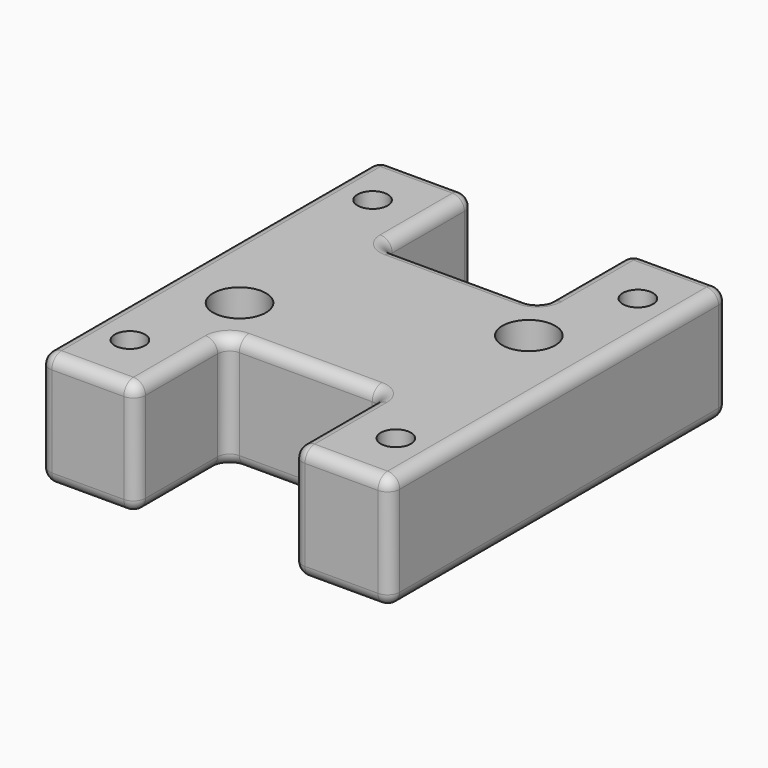
from build123d import *

# Parameters (mm, degrees)
F0_W      = 58
F0_H      = 70
F4_DEPTH  = 19
F3_R      = 2.5
F5_DEPTH  = 14
F2_R      = 4
F6_DEPTH  = 5
F7_DEPTH  = 19
F8_DEPTH  = 5
F9_R      = 2.75
F10_DEPTH = 19
F12_DEPTH = 4
F13_W     = 26
F13_H     = 19
F14_DEPTH = 19
F15_R     = 2
F16_R     = 4.375
F16_R_2   = 2.75
F17_DEPTH = 5.5


with BuildPart() as f4:
    # F0 (on Top) → F4 (new body)
    with BuildSketch(Plane.XY):
        Rectangle(F0_W, F0_H)
    extrude(amount=F4_DEPTH)

    # F3 (on Top) → F5 (cut)
    with BuildSketch(Plane.XY):
        with Locations((-21.9419958555, 25.0643808395)):
            Circle(F3_R)
    extrude(amount=F5_DEPTH, mode=Mode.SUBTRACT)

    # F2 (on Top) → F6 (cut)
    with BuildSketch(Plane.XY):
        with Locations((-21.9419958555, 25.0643808395)):
            Circle(F2_R)
    extrude(amount=F6_DEPTH, mode=Mode.SUBTRACT)

    # F3 (on Top) → F7 (cut)
    with BuildSketch(Plane.XY):
        with Locations((-21.9419958555, 25.0643808395)):
            Circle(F3_R)
        with Locations((22.0838580281, 24.9406788498)):
            Circle(F3_R)
        with Locations((-21.9535976648, -25.1581091434)):
            Circle(F3_R)
        with Locations((22.0838580281, -25.1581091434)):
            Circle(F3_R)
    extrude(amount=F7_DEPTH, mode=Mode.SUBTRACT)

    # F2 (on Top) → F8 (cut)
    with BuildSketch(Plane.XY):
        with Locations((-21.9419958555, 25.0643808395)):
            Circle(F2_R)
        with Locations((-21.9535976648, -25.1581091434)):
            Circle(F2_R)
        with Locations((22.0838580281, -25.1581091434)):
            Circle(F2_R)
        with Locations((22.0838580281, 24.9406788498)):
            Circle(F2_R)
    extrude(amount=F8_DEPTH, mode=Mode.SUBTRACT)

    # F9 (on Top) → F10 (cut)
    with BuildSketch(Plane.XY):
        with Locations((17.5465345383, 8.045819588)):
            Circle(F9_R)
        with Locations((-17.3794273287, -8.1804059446)):
            Circle(F9_R)
    extrude(amount=F10_DEPTH, mode=Mode.SUBTRACT)

    # F11 (on face) → F12 (cut)
    with BuildSketch(Plane(origin=(0, 0, 0), x_dir=(1, 0, 0), z_dir=(0, 0, -1))):
        Polygon((-15.0014997318, 12.5717974553), (-20.001031324, 12.5033587326), (-22.4415274477, 8.1394180054), (-19.8824919791, 3.8439160009), (-14.8829603869, 3.9123547236), (-12.4424642633, 8.2762954508), align=None)
        Polygon((19.4248843713, -12.627403312), (22.5651466247, -8.7365482672), (20.7656984402, -4.0715738588), (15.8259880023, -3.2974544952), (12.6857257488, -7.1883095399), (14.4851739333, -11.8532839484), align=None)
    extrude(amount=-F12_DEPTH, mode=Mode.SUBTRACT)

    # F13 (on Top) → F14 (cut)
    with BuildSketch(Plane.XY):
        with Locations((-0.0902060419, 25.5731031678)):
            Rectangle(F13_W, F13_H)
        with Locations((-0.0902060419, -25.5731031678)):
            Rectangle(F13_W, F13_H)
    extrude(amount=F14_DEPTH, mode=Mode.SUBTRACT)

    # F15
    f15_edges = [f4.edges().sort_by_distance(p)[0] for p in [
        (-13.090206, 25.536552, 0),
        (-0.090206, 16.073103, 0),
        (12.909794, 25.536552, 0),
        (-21.045103, 35, 0),
        (-29, 0, 0),
        (-21.045103, -35, 0),
        (-13.090206, -25.536552, 0),
        (-0.090206, -16.073103, 0),
        (12.909794, -25.536552, 0),
        (20.954897, -35, 0),
        (29, 0, 0),
        (20.954897, 35, 0),
        (-13.090206, 35, 9.5),
        (-13.090206, 16.073103, 9.5),
        (12.909794, 35, 9.5),
        (29, 35, 9.5),
        (-29, 35, 9.5),
        (-21.045103, 35, 19),
        (-13.090206, 25.536552, 19),
        (-0.090206, 16.073103, 19),
        (20.954897, 35, 19),
        (29, 0, 19),
        (29, -35, 9.5),
        (12.909794, 25.536552, 19),
        (-29, -35, 9.5),
        (-29, 0, 19),
        (-13.090206, -35, 9.5),
        (12.909794, -35, 9.5),
        (12.909794, -25.536552, 19),
        (12.909794, -16.073103, 9.5),
        (20.954897, -35, 19),
        (-21.045103, -35, 19),
        (-0.090206, -16.073103, 19),
        (-13.090206, -25.536552, 19),
        (-13.090206, -16.073103, 9.5),
        (12.909794, 16.073103, 9.5),
    ]]
    fillet(f15_edges, radius=F15_R)

    # F16 (on face) → F17 (cut)
    with BuildSketch(Plane.XY.offset(19)):
        with Locations((-17.3794273287, -8.1804059446)):
            Circle(F16_R)
        with Locations((-17.3794273287, -8.1804059446)):
            Circle(F16_R_2, mode=Mode.SUBTRACT)
        with Locations((17.5465345383, 8.045819588)):
            Circle(F16_R)
        with Locations((17.5465345383, 8.045819588)):
            Circle(F16_R_2, mode=Mode.SUBTRACT)
    extrude(amount=-F17_DEPTH, mode=Mode.SUBTRACT)


solid = f4.part
